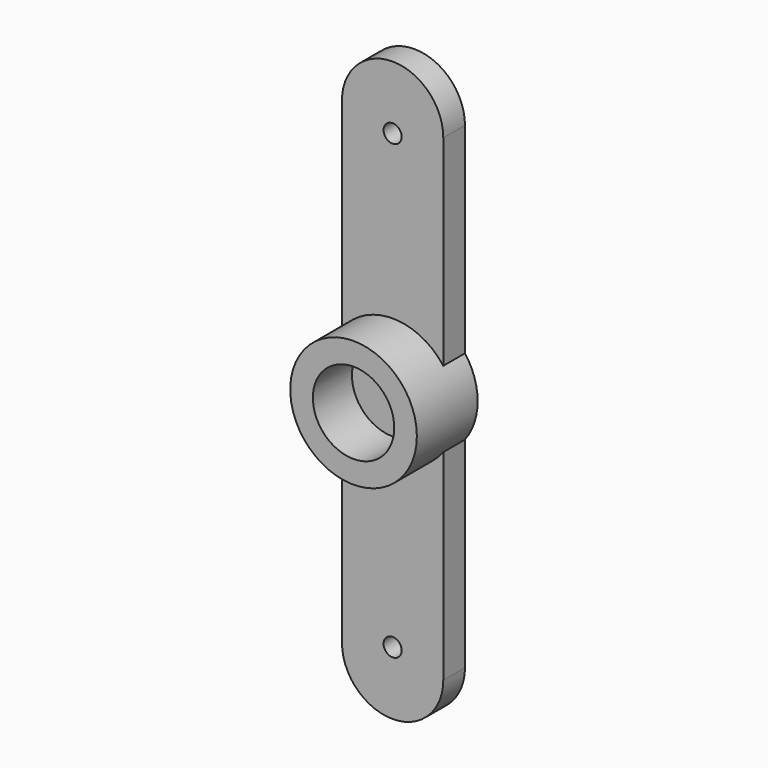
from build123d import *

# Parameters (mm, degrees)
F0_R     = 3.5
F1_DEPTH = 4.2
F3_DEPTH = 1.5
F4_R     = 0.5
F5_DEPTH = 25
F6_R     = 2.25
F7_DEPTH = 2.7


with BuildPart() as f1:
    # F0 (on Front) → F1 (new body)
    with BuildSketch(Plane.XZ):
        Circle(F0_R)
    extrude(amount=-F1_DEPTH)

    # F2 (on face) → F3 (join)
    with BuildSketch(Plane(origin=(0, 4.2, 0), x_dir=(-1, 0, 0), z_dir=(0, 1, 0))):
        with BuildLine():
            ThreePointArc((2.8, 13.2), (0, 16), (-2.8, 13.2))
            Line((-2.8, 13.2), (-2.8, -13.2))
            ThreePointArc((-2.8, -13.2), (0, -16), (2.8, -13.2))
            Line((2.8, -13.2), (2.8, 13.2))
        make_face()
    extrude(amount=-F3_DEPTH)

    # F4 (on face) → F5 (cut)
    with BuildSketch(Plane.XZ.offset(-2.7)):
        with Locations((0, 12.5)):
            Circle(F4_R)
        with Locations((0, -12.5)):
            Circle(F4_R)
    extrude(amount=-F5_DEPTH, mode=Mode.SUBTRACT)

    # F6 (on face) → F7 (cut)
    with BuildSketch(Plane.XZ):
        Circle(F6_R)
    extrude(amount=-F7_DEPTH, mode=Mode.SUBTRACT)


solid = f1.part
